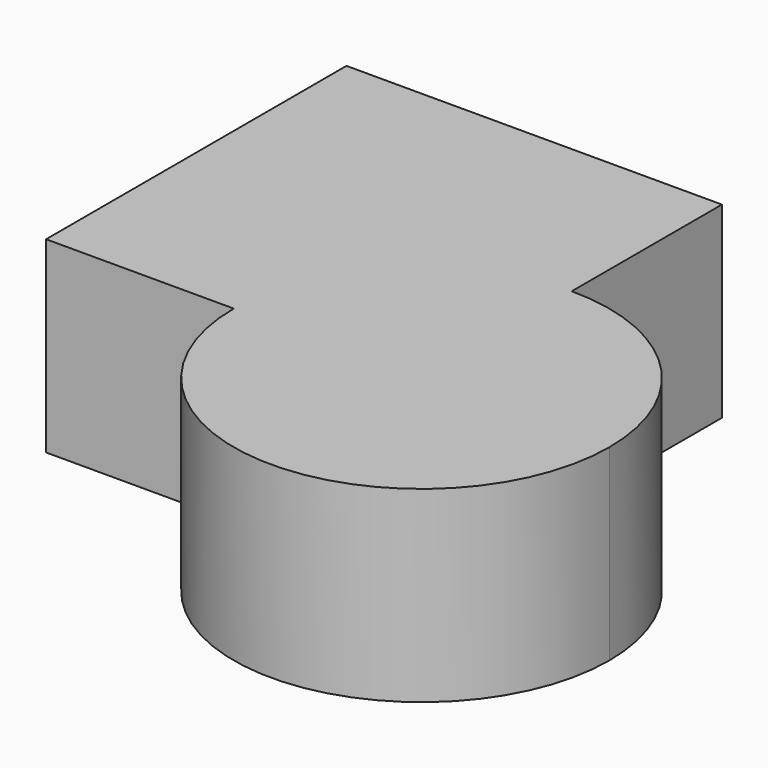
from build123d import *

# Parameters (mm, degrees)
F1_DEPTH = 25


with BuildPart() as f1:
    # F0 (on Top) → F1 (new body)
    with BuildSketch(Plane.XY):
        with BuildLine():
            ThreePointArc((39.129609, -3.07483), (31.807278, 14.60284), (14.129609, 21.92517))
            Line((14.129609, 21.92517), (14.129609, -3.07483))
            Line((14.129609, -3.07483), (-10.870391, -3.07483))
            ThreePointArc((-10.870391, -3.07483), (14.129609, -28.07483), (39.129609, -3.07483))
        make_face()
        with BuildLine():
            Line((14.129609, -3.07483), (14.129609, 21.92517))
            ThreePointArc((14.129609, 21.92517), (-3.548061, 14.60284), (-10.870391, -3.07483))
            Line((-10.870391, -3.07483), (14.129609, -3.07483))
        make_face()
        with BuildLine():
            Line((14.129609, 46.92517), (-35.870391, 46.92517))
            Line((-35.870391, 46.92517), (-35.870391, -3.07483))
            Line((-35.870391, -3.07483), (-10.870391, -3.07483))
            ThreePointArc((-10.870391, -3.07483), (-3.548061, 14.60284), (14.129609, 21.92517))
            Line((14.129609, 21.92517), (14.129609, 46.92517))
        make_face()
    extrude(amount=F1_DEPTH)


solid = f1.part
